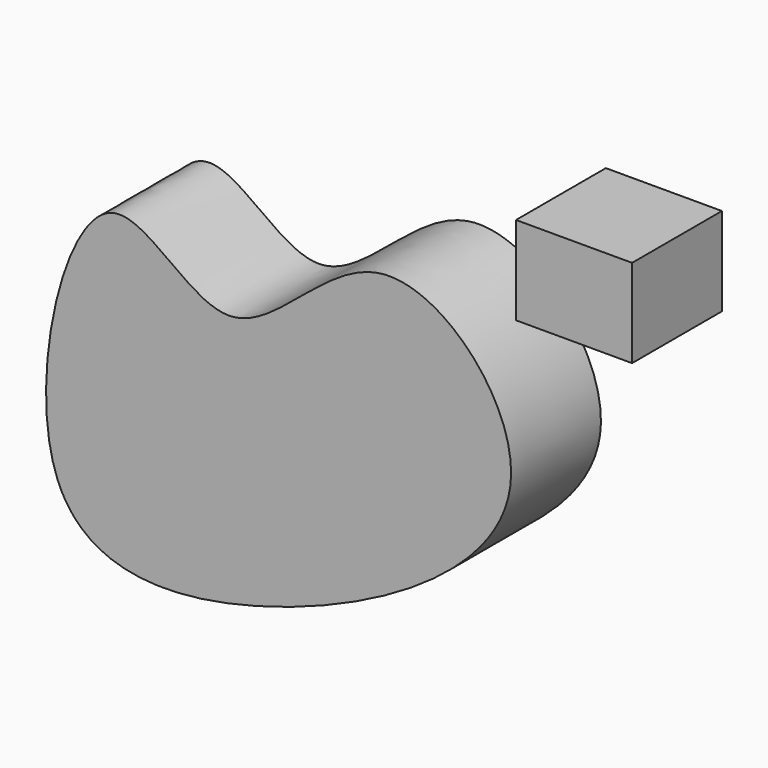
from build123d import *

# Parameters (mm, degrees)
F1_DEPTH = 25
F0_W     = 25.8442349732
F0_H     = 19.6640901268


with BuildPart() as f1:
    # F0 (on Front) → F1 (new body)
    with BuildSketch(Plane.XZ):
        with BuildLine():
            add(Edge.make_bspline(
                [(-82.5891792774, -21.6305013746), (-89.4511938515, -4.4539511719), (-75.9032218879, 56.3214889248), (-43.1074394159, 7.0566190316), (-12.093787195, 59.9773405775), (39.943231533, 4.3797213554), (-36.1994930391, -38.2505368905), (-76.4657316261, -36.9583187176), (-82.5891792774, -21.6305013746)],
                knots=[0, 0, 0, 0, 0.1854315945, 0.3156561586, 0.4697171904, 0.6282961285, 0.8345266322, 1, 1, 1, 1], degree=3))
        make_face()
    extrude(amount=F1_DEPTH)


with BuildPart() as f1b:
    # F0 (on Front) → F1, piece 2 (new body)
    with BuildSketch(Plane.XZ):
        with Locations((32.3989298195, 52.6248533279)):
            Rectangle(F0_W, F0_H)
    extrude(amount=F1_DEPTH)


solid = Compound([f1.part, f1b.part])
